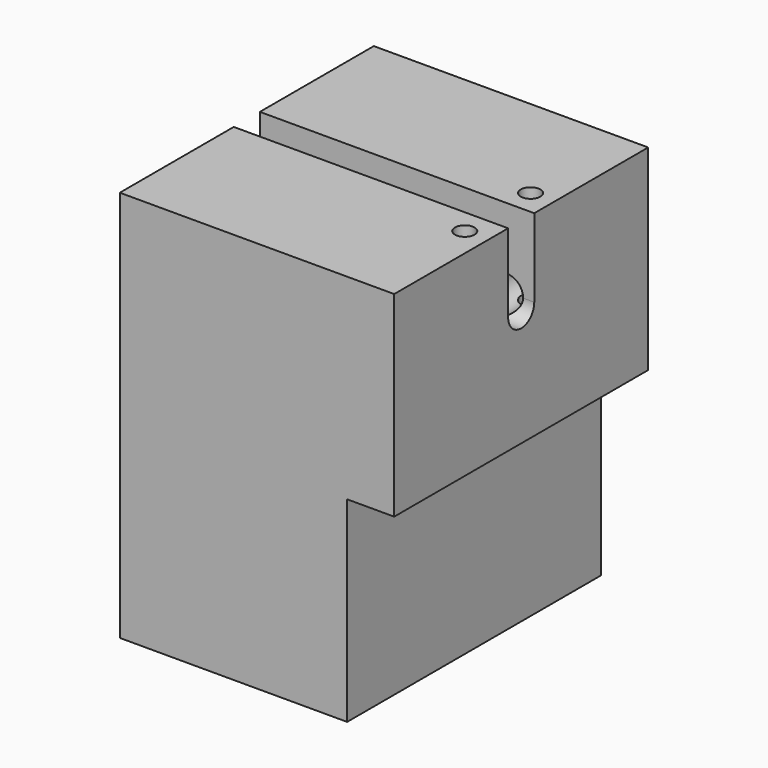
from build123d import *

# Parameters (mm, degrees)
F1_DEPTH = 81
F2_R     = 2.5
F3_DEPTH = 51.336541
F5_DEPTH = 100
F6_R     = 4.165
F7_DEPTH = 40


with BuildPart() as f1:
    # F0 (on Front) → F1 (new body)
    with BuildSketch(Plane.XZ):
        Polygon((-12.655995, 51.335541), (-82.655995, 51.335541), (-82.655995, -48.664459), (-24.655995, -48.664459), (-24.655995, 1.335541), (-12.655995, 1.335541), align=None)
    extrude(amount=F1_DEPTH)

    # F2 (on Top) → F3 (cut, through all)
    with BuildSketch(Plane.XY):
        with Locations((-18.655995, -30)):
            Circle(F2_R)
        with Locations((-18.655995, -51)):
            Circle(F2_R)
    extrude(amount=F3_DEPTH, mode=Mode.SUBTRACT)

    # F4 (on Right) → F5 (cut)
    with BuildSketch(Plane.YZ):
        with BuildLine():
            Line((-36.335, 31.335541), (-36.335, 51.335541))
            ThreePointArc((-36.335, 51.335541), (-40.5, 55.500541), (-44.665, 51.335541))
            Line((-44.665, 51.335541), (-44.665, 31.335541))
            ThreePointArc((-44.665, 31.335541), (-40.5, 27.170541), (-36.335, 31.335541))
        make_face()
    extrude(amount=-F5_DEPTH, mode=Mode.SUBTRACT)

    # F6 (on Front) → F7 (cut)
    with BuildSketch(Plane.XZ):
        with Locations((-19.655995, 31.335541)):
            Circle(F6_R)
    extrude(amount=F7_DEPTH, mode=Mode.SUBTRACT)


solid = f1.part
